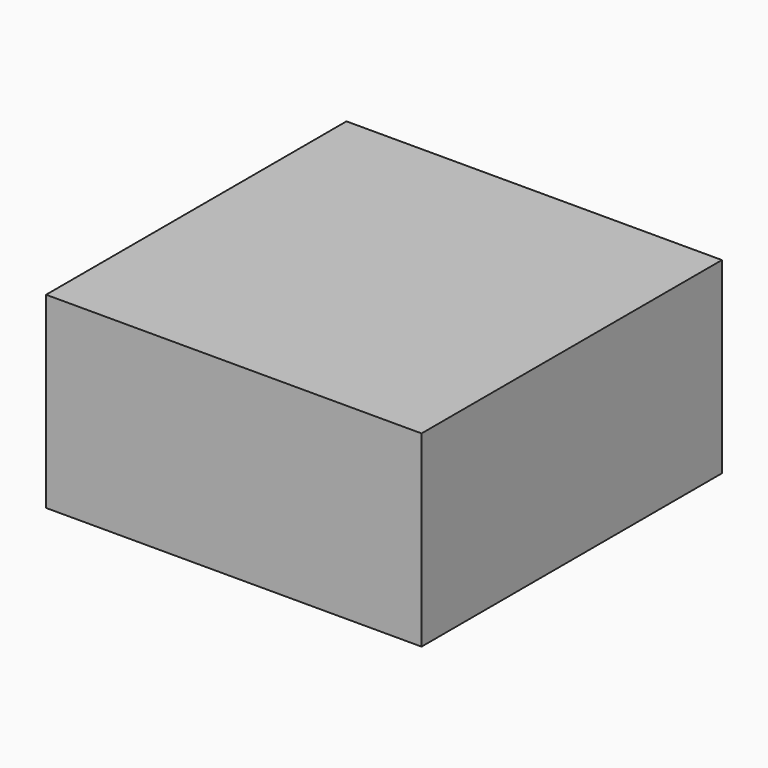
from build123d import *

# Parameters (mm, degrees)
SKETCH_W  = 20
SKETCH_H  = 20
PAD_DEPTH = 5


with BuildPart() as part:
    # Sketch → Pad (new body, symmetric)
    with BuildSketch(Plane.XY):
        with Locations((10, 10)):
            Rectangle(SKETCH_W, SKETCH_H)
    extrude(amount=PAD_DEPTH, both=True)


solid = part.part
